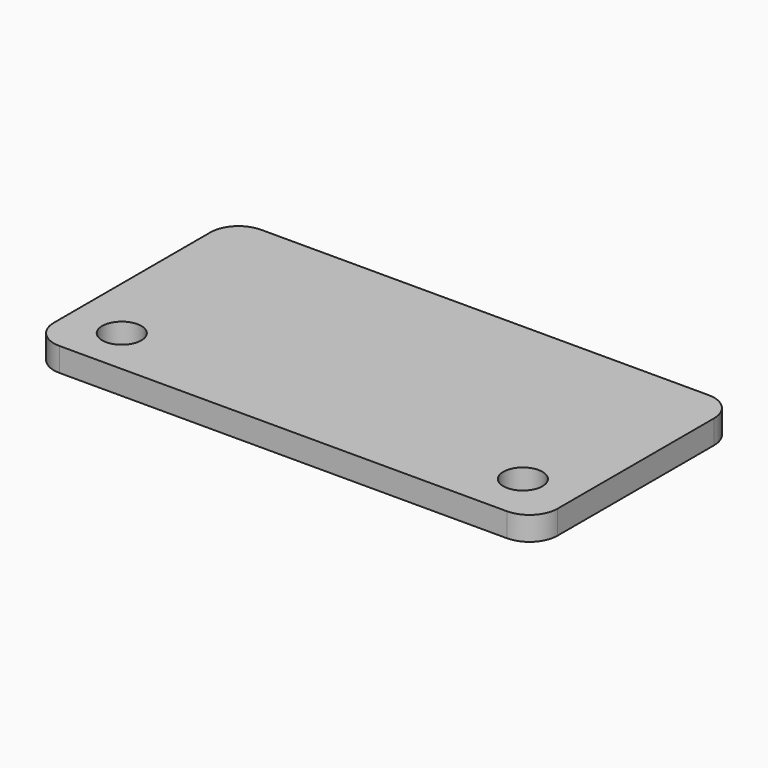
from build123d import *

# Parameters (mm, degrees)
F0_W     = 45.72
F0_H     = 22.86
F0_R     = 1.778
F1_DEPTH = 2.159
F2_R     = 2.54


with BuildPart() as f1:
    # F0 (on Top) → F1 (new body)
    with BuildSketch(Plane.XY):
        Rectangle(F0_W, F0_H)
        with Locations((-18.0975, -7.138826)):
            Circle(F0_R, mode=Mode.SUBTRACT)
        with Locations((18.0975, -6.858)):
            Circle(F0_R, mode=Mode.SUBTRACT)
    extrude(amount=F1_DEPTH)

    # F2
    f2_edges = [f1.edges().sort_by_distance(p)[0] for p in [
        (22.86, -11.43, 1.0795),
        (22.86, 11.43, 1.0795),
        (-22.86, -11.43, 1.0795),
        (-22.86, 11.43, 1.0795),
    ]]
    fillet(f2_edges, radius=F2_R)


solid = f1.part
